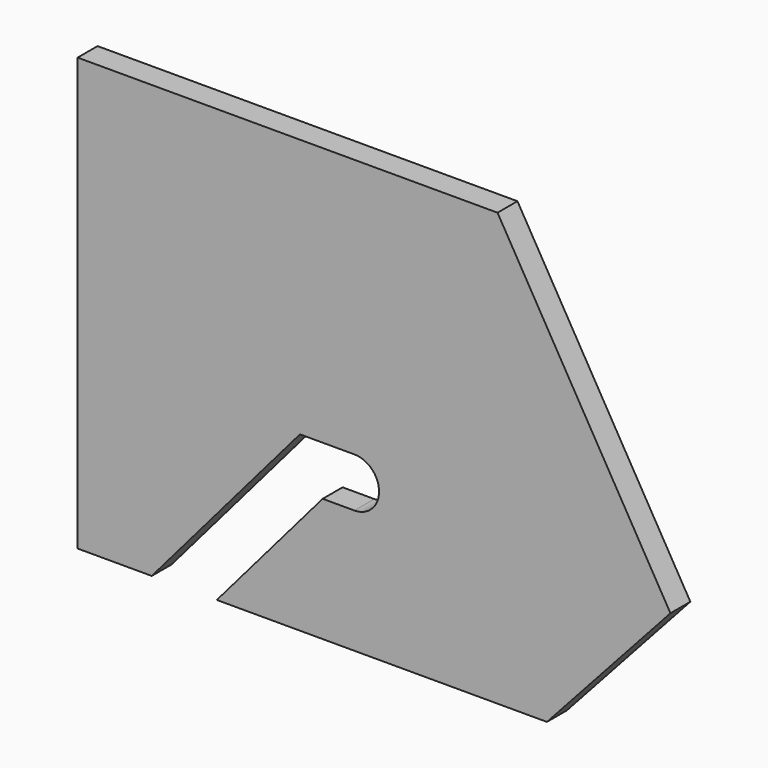
from build123d import *

# Parameters (mm, degrees)
F1_DEPTH = 0.8001


with BuildPart() as f1:
    # F0 (on Front) → F1 (new body, symmetric)
    with BuildSketch(Plane.XZ):
        with BuildLine():
            Line((7.9375, 14.2875), (-19.05, 14.2875))
            Line((-19.05, 14.2875), (-19.05, -13.49375))
            Line((-19.05, -13.49375), (-14.2875, -13.49375))
            Line((-14.2875, -13.49375), (-4.7625, -2.38125))
            Line((-4.7625, -2.38125), (-1.264909, -2.38125))
            ThreePointArc((-1.264909, -2.38125), (0.322591, -3.96875), (-1.264909, -5.55625))
            Line((-1.264909, -5.55625), (-3.302207, -5.55625))
            Line((-3.302207, -5.55625), (-10.105778, -13.49375))
            Line((-10.105778, -13.49375), (11.1125, -13.49375))
            Line((11.1125, -13.49375), (19.05, -4.7625))
            Line((19.05, -4.7625), (7.9375, 14.2875))
        make_face()
    extrude(amount=F1_DEPTH, both=True)


solid = f1.part
